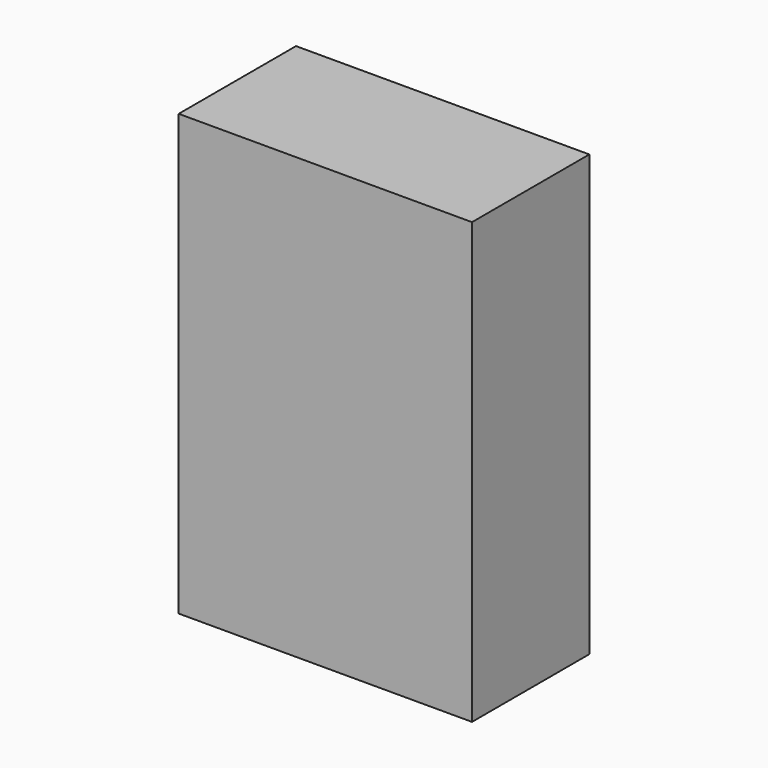
from build123d import *

# Parameters (mm, degrees)
F0_W     = 50.8
F0_H     = 53.8275577128
F0_H_2   = 51.3521619141
F0_H_3   = 47.2202803731
F2_DEPTH = 25.4


with BuildPart() as f2:
    # F0 (on Front) → F2 (new body, symmetric)
    with BuildSketch(Plane.XZ):
        with Locations((-30.7190135777, 78.2659407705)):
            Rectangle(F0_W, F0_H)
        with Locations((20.0809864223, 78.2659407705)):
            Rectangle(F0_W, F0_H)
        with Locations((-30.7190135777, 25.6760809571)):
            Rectangle(F0_W, F0_H_2)
        with Locations((20.0809864223, 25.6760809571)):
            Rectangle(F0_W, F0_H_2)
        with Locations((-30.7190135777, -23.6101401865)):
            Rectangle(F0_W, F0_H_3)
        with Locations((20.0809864223, -23.6101401865)):
            Rectangle(F0_W, F0_H_3)
    extrude(amount=F2_DEPTH, both=True)


solid = f2.part
